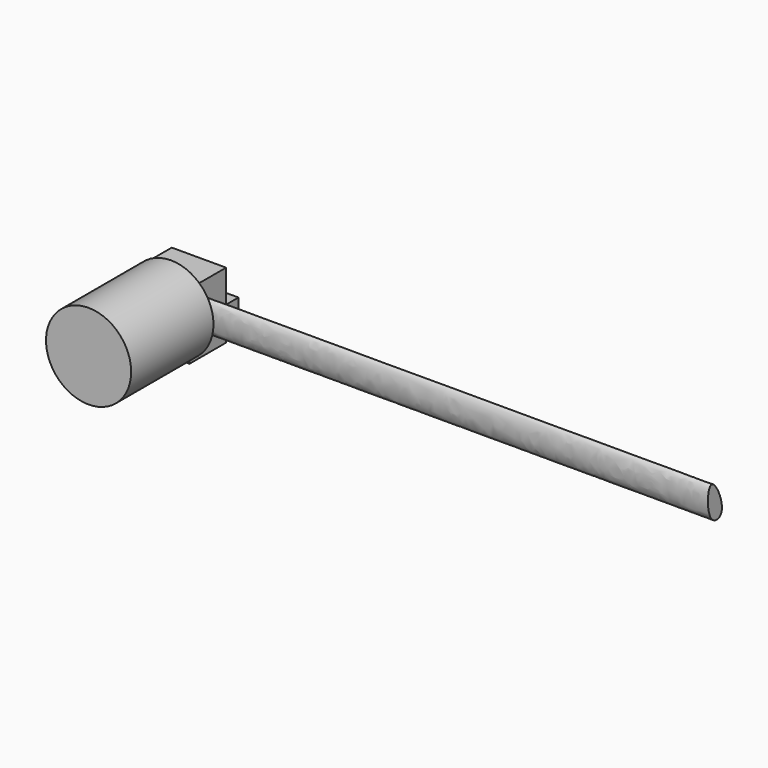
from build123d import *

# Parameters (mm, degrees)
F0_W          = 76.5487626195
F0_H          = 93.2028591633
F1_DEPTH      = 37.3490974307
F1_DEPTH_BACK = 27.2493306547
F2_W          = 17.8239643574
F2_H          = 20.729534328
F3_DEPTH      = 37.6310423017
F5_DEPTH      = 714.3917679787
F6_R          = 60.0481927395
F7_DEPTH      = 145.1564878225


with BuildPart() as f1:
    # F0 (on Front) → F1 (new body, two sides)
    with BuildSketch(Plane.XZ) as f1_sk:
        Rectangle(F0_W, F0_H)
    extrude(amount=-F1_DEPTH)
    extrude(f1_sk.sketch, amount=F1_DEPTH_BACK)

    # F2 (on face) → F3 (join)
    with BuildSketch(Plane(origin=(0, 37.3490974307, 0), x_dir=(-1, 0, 0), z_dir=(0, 1, 0))):
        with Locations((-16.7995356023, -20.2076137066)):
            Rectangle(F2_W, F2_H)
    extrude(amount=F3_DEPTH)

    # F4 (on face) → F5 (join)
    with BuildSketch(Plane.YZ.offset(38.2743813097)):
        with BuildLine():
            add(Edge.make_bspline(
                [(0, 24.6665626764), (-7.4472791087, 23.6342052026), (-9.433108542, -26.2938272196), (30.9354078189, -22.9313317229), (7.6537674592, 25.7275439991), (0, 24.6665626764)],
                knots=[0, 0, 0, 0, 0.3732538755, 0.6163970324, 1, 1, 1, 1], degree=3))
        make_face()
    extrude(amount=F5_DEPTH)

    # F6 (on face) → F7 (join)
    with BuildSketch(Plane.XZ.offset(27.2493306547)):
        with Locations((12.1505744755, 13.4467631578)):
            Circle(F6_R)
    extrude(amount=F7_DEPTH)


solid = f1.part
